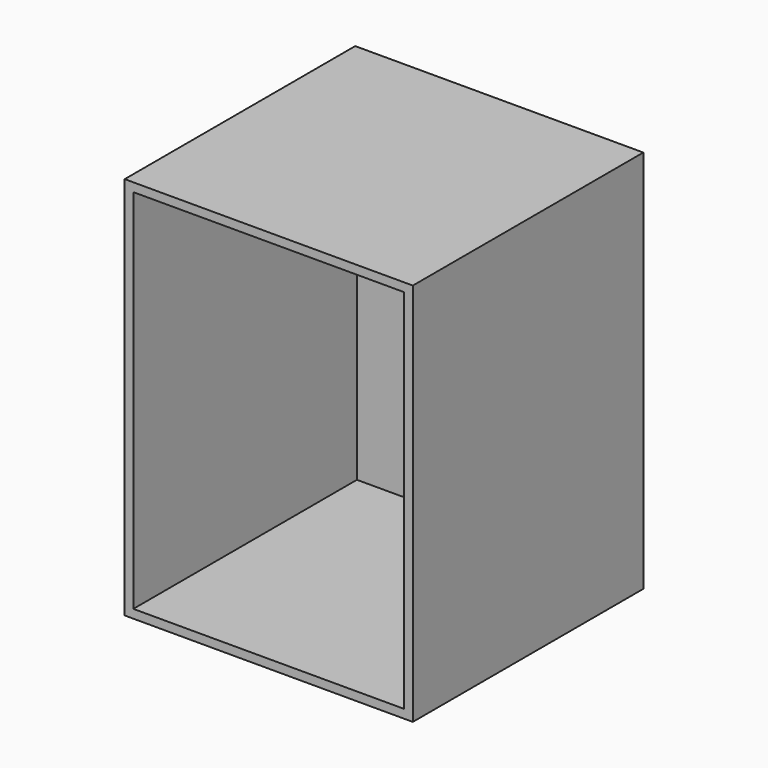
from build123d import *

# Parameters (mm, degrees)
F0_W     = 50.6739839911
F0_H     = 37.3927876353
F1_DEPTH = 800
F2_DEPTH = 600
F3_DEPTH = 600
F4_T     = -18


with BuildPart() as f1:
    # F0 (on Top) → F1 (new body)
    with BuildSketch(Plane.XY):
        with Locations((25.3369919956, -18.6963938177)):
            Rectangle(F0_W, F0_H)
    extrude(amount=F1_DEPTH)

    # F2 (add): a face of the model
    f2_faces = [f1.faces().sort_by_distance(p)[0] for p in [
        (0, -18.6963938177, 400),
    ]]
    extrude(f2_faces, amount=-F2_DEPTH)

    # F3 (add): a face of the model
    f3_faces = [f1.faces().sort_by_distance(p)[0] for p in [
        (300, 0, 400),
    ]]
    extrude(f3_faces, amount=-F3_DEPTH)

    # F4
    f4_openings = [f1.faces().sort_by_distance(p)[0] for p in [
        (300, -600, 400),
    ]]
    offset(amount=F4_T, openings=f4_openings)


solid = f1.part
